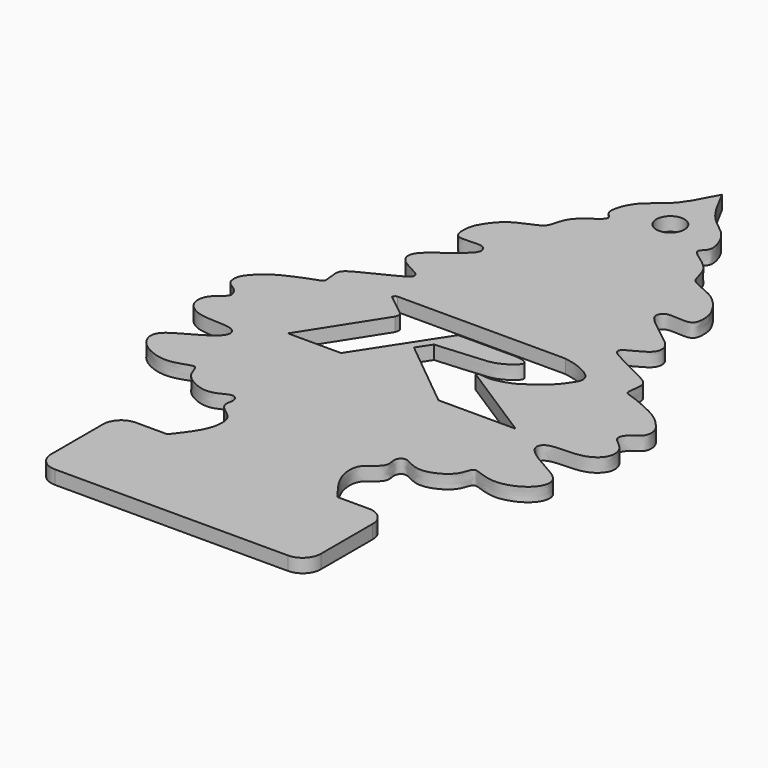
from build123d import *

# Parameters (mm, degrees)
F1_DEPTH = 1.5
F2_SCALE = 1.3
F3_R     = 2
F4_DEPTH = 1.9510001
F6_DEPTH = 1.9510001


with BuildPart() as f1:
    # F0 (on Top) → F1 (new body)
    with BuildSketch(Plane.XY):
        with BuildLine():
            add(Edge.make_bspline(
                [(0, 45.5050580204), (0.7142425006, 44.0796289631), (2.0052275605, 41.503182427), (4.6402957828, 40.0627711385), (5.6037892919, 37.881872721), (5.5936404093, 36.71879158), (4.5951142612, 36.0886818096), (5.7307746453, 35.1350282021), (7.5911196455, 33.9904323837), (7.9172796835, 31.956874219), (8.5000966539, 31.2184014739), (11.3278744693, 30.3686265303), (12.736597555, 28.288825875), (13.1976203441, 27.3015367821), (13.236407841, 25.3629188093), (11.9893823486, 25.1801074341), (10.1702717418, 25.4142346577), (9.6325200432, 24.9114817752), (9.3411107638, 23.815633911), (13.5445107824, 21.2479980884), (14.0578984345, 19.885141949), (13.5033493539, 18.6819406462), (11.256391137, 17.8464473714), (11.0596453486, 17.1644942773), (11.8532806973, 16.5272458042), (15.7702697907, 14.7387104677), (16.993123799, 13.8360161183), (16.3765127679, 11.7037521142), (17.2396567232, 11.5552601738), (20.9154165322, 10.0686967068), (22.0685994881, 8.8432253215), (22.9736430455, 7.8362683722), (22.872971038, 6.3369047051), (21.7752410777, 5.955259181), (21.0608443327, 4.9292935888), (21.3842409106, 4.2611562008), (22.7289993416, 3.4283114773), (23.0826036647, 1.5611581107), (21.169867279, -0.089980491), (17.9322466809, 0.2082480356), (16.7682485506, -0.3880878246), (16.7812400893, -1.5053684402), (18.7927580586, -2.8997949134), (21.7707730379, -4.2949909562), (21.9791753847, -5.825976716), (20.9956859936, -7.3809433562), (18.1472797938, -8.5284651703), (15.9880676557, -7.6619403601), (15.0984510718, -7.4237754422), (14.86397039, -8.9105983509), (13.61131565, -9.9786781625), (12.0481808403, -10.5419351232), (10.7877898676, -10.3432404822), (9.6865552289, -9.6448888438), (9.0833876361, -9.7773965213), (8.6932854825, -10.4179652528), (9.0948811543, -11.3824804306), (8.3451159992, -12.3162459962), (6.8505046064, -13.1388026508), (7.0160314268, -15.6343150866), (8.2868992841, -17.4980437436), (9.0174690224, -18.4363697121), (9.325123392, -18.8332814723)],
                knots=[0, 0, 0, 0, 0.0279521931, 0.0504676292, 0.0702027867, 0.0837937909, 0.0957563723, 0.1096935049, 0.1296167957, 0.1477088701, 0.1599882295, 0.1822493536, 0.202892027, 0.2171041564, 0.2338639434, 0.2474403639, 0.2652354948, 0.2756428502, 0.2873798646, 0.3160827043, 0.3314459546, 0.3456415412, 0.3657748055, 0.3749603713, 0.3873229653, 0.4150143501, 0.4309642169, 0.4483917829, 0.4590200093, 0.4852225219, 0.5030184532, 0.5178055706, 0.5325592061, 0.5463969433, 0.5603049518, 0.5706484206, 0.5868808774, 0.6036319509, 0.6232370386, 0.6470338888, 0.660842466, 0.6726278095, 0.6931855633, 0.7170425576, 0.731693738, 0.7488400623, 0.7715727487, 0.7915403768, 0.802120445, 0.816724409, 0.833775737, 0.8505570893, 0.8654572521, 0.8802060474, 0.8897605325, 0.9003067971, 0.9130561907, 0.9267541315, 0.9432455072, 0.9628994308, 0.9829943609, 1, 1, 1, 1], degree=3))
            add(Edge.make_bspline(
                [(0, 45.5050580204), (-0.7142425006, 44.0796289631), (-2.0052275605, 41.503182427), (-4.6402957828, 40.0627711385), (-5.6037892919, 37.881872721), (-5.5936404093, 36.71879158), (-4.5951142612, 36.0886818096), (-5.7307746453, 35.1350282021), (-7.5911196455, 33.9904323837), (-7.9172796835, 31.956874219), (-8.5000966539, 31.2184014739), (-11.3278744693, 30.3686265303), (-12.736597555, 28.288825875), (-13.1976203441, 27.3015367821), (-13.236407841, 25.3629188093), (-11.9893823486, 25.1801074341), (-10.1702717418, 25.4142346577), (-9.6325200432, 24.9114817752), (-9.3411107638, 23.815633911), (-13.5445107824, 21.2479980884), (-14.0578984345, 19.885141949), (-13.5033493539, 18.6819406462), (-11.256391137, 17.8464473714), (-11.0596453486, 17.1644942773), (-11.8532806973, 16.5272458042), (-15.7702697907, 14.7387104677), (-16.993123799, 13.8360161183), (-16.3765127679, 11.7037521142), (-17.2396567232, 11.5552601738), (-20.9154165322, 10.0686967068), (-22.0685994881, 8.8432253215), (-22.9736430455, 7.8362683722), (-22.872971038, 6.3369047051), (-21.7752410777, 5.955259181), (-21.0608443327, 4.9292935888), (-21.3842409106, 4.2611562008), (-22.7289993416, 3.4283114773), (-23.0826036647, 1.5611581107), (-21.169867279, -0.089980491), (-17.9322466809, 0.2082480356), (-16.7682485506, -0.3880878246), (-16.7812400893, -1.5053684402), (-18.7927580586, -2.8997949134), (-21.7707730379, -4.2949909562), (-21.9791753847, -5.825976716), (-20.9956859936, -7.3809433562), (-18.1472797938, -8.5284651703), (-15.9880676557, -7.6619403601), (-15.0984510718, -7.4237754422), (-14.86397039, -8.9105983509), (-13.61131565, -9.9786781625), (-12.0481808403, -10.5419351232), (-10.7877898676, -10.3432404822), (-9.6865552289, -9.6448888438), (-9.0833876361, -9.7773965213), (-8.6932854825, -10.4179652528), (-9.0948811543, -11.3824804306), (-8.3451159992, -12.3162459962), (-6.8505046064, -13.1388026508), (-7.0160314268, -15.6343150866), (-8.2868992841, -17.4980437436), (-9.0174690224, -18.4363697121), (-9.325123392, -18.8332814723)],
                knots=[0, 0, 0, 0, 0.0279521931, 0.0504676292, 0.0702027867, 0.0837937909, 0.0957563723, 0.1096935049, 0.1296167957, 0.1477088701, 0.1599882295, 0.1822493536, 0.202892027, 0.2171041564, 0.2338639434, 0.2474403639, 0.2652354948, 0.2756428502, 0.2873798646, 0.3160827043, 0.3314459546, 0.3456415412, 0.3657748055, 0.3749603713, 0.3873229653, 0.4150143501, 0.4309642169, 0.4483917829, 0.4590200093, 0.4852225219, 0.5030184532, 0.5178055706, 0.5325592061, 0.5463969433, 0.5603049518, 0.5706484206, 0.5868808774, 0.6036319509, 0.6232370386, 0.6470338888, 0.660842466, 0.6726278095, 0.6931855633, 0.7170425576, 0.731693738, 0.7488400623, 0.7715727487, 0.7915403768, 0.802120445, 0.816724409, 0.833775737, 0.8505570893, 0.8654572521, 0.8802060474, 0.8897605325, 0.9003067971, 0.9130561907, 0.9267541315, 0.9432455072, 0.9628994308, 0.9829943609, 1, 1, 1, 1], degree=3))
            Line((-9.325123392, -18.8332814723), (-12.7830247879, -18.8332814723))
            ThreePointArc((-12.7830247879, -18.8332814723), (-14.1972383503, -19.41906791), (-14.7830247879, -20.8332814723))
            Line((-14.7830247879, -20.8332814723), (-14.7830247879, -27.9278125167))
            ThreePointArc((-14.7830247879, -27.9278125167), (-14.1972383503, -29.3420260791), (-12.7830247879, -29.9278125167))
            Line((-12.7830247879, -29.9278125167), (0, -29.9278125167))
            Line((0, -29.9278125167), (12.7830247879, -29.9278125167))
            ThreePointArc((12.7830247879, -29.9278125167), (14.1972383503, -29.3420260791), (14.7830247879, -27.9278125167))
            Line((14.7830247879, -27.9278125167), (14.7830247879, -20.8332814723))
            ThreePointArc((14.7830247879, -20.8332814723), (14.1972383503, -19.41906791), (12.7830247879, -18.8332814723))
            Line((12.7830247879, -18.8332814723), (9.325123392, -18.8332814723))
        make_face()
    extrude(amount=F1_DEPTH)


with BuildPart() as f1_1:
    # F2: moved
    add(f1.part.scale(F2_SCALE))

    # F3 (on face) → F4 (cut, through all)
    with BuildSketch(Plane.XY.offset(1.95)):
        with Locations((0, 49.9733202159)):
            Circle(F3_R)
    extrude(amount=-F4_DEPTH, mode=Mode.SUBTRACT)

    # F5 (on face) → F6 (cut, through all)
    with BuildSketch(Plane.XY.offset(1.95)):
        with BuildLine():
            Line((11.0557144508, 17.4311883748), (-12.8567134961, 17.4311883748))
            add(Edge.make_bspline(
                [(-10.0516546518, 13.4874423966), (-9.9679213861, 13.6980227208), (-9.9230846178, 14.126854671), (-10.0986540021, 14.6288764381), (-13.3575138898, 16.9072087787), (-13.2748139445, 17.0669823523), (-13.1186931133, 17.4119357151), (-12.8567134961, 17.4311883748)],
                knots=[0, 0, 0, 0, 0.1680177569, 0.3371919829, 0.7626879676, 0.8389247343, 1, 1, 1, 1], degree=3))
            Line((-10.0516546518, 13.4874423966), (-16.8282315135, 2.8782116715))
            Line((-16.8282315135, 2.8782116715), (-9.2462422326, 2.8782116715))
            Line((-9.2462422326, 2.8782116715), (-1.7753443681, 14.3761737272))
            Line((-1.7753443681, 14.3761737272), (6.2432992272, 14.3728945404))
            add(Edge.make_bspline(
                [(-2.4496298283, 10.9551744536), (-1.8803284968, 11.0297335518), (-0.9410748476, 11.0095094173), (1.5232504357, 11.2643960003), (3.8187894731, 11.3784538291), (5.5126374306, 11.6151160422), (6.4317207729, 12.0381208735), (7.4068761466, 12.5583706563), (8.2315877134, 13.3989162837), (8.1939752343, 13.847429914), (7.7271387252, 14.1677011277), (7.0463823788, 14.3081639959), (6.5815449815, 14.3742458527), (6.2432992272, 14.3728945404)],
                knots=[0, 0, 0, 0, 0.104940708, 0.2368901618, 0.3684084821, 0.4774985702, 0.5613305035, 0.6519519919, 0.7414836949, 0.7919032856, 0.8525824301, 0.9224713966, 1, 1, 1, 1], degree=3))
            Line((-2.4496298283, 10.9551744536), (-3.7532614078, 8.9841093868))
            Line((-3.7532614078, 8.9841093868), (6.3222674653, 0.7574152551))
            Line((6.3222674653, 0.7574152551), (17.3204820603, 0.7574152551))
            Line((17.3204820603, 0.7574152551), (5.6617134251, 8.2216700539))
            add(Edge.make_bspline(
                [(11.0557144508, 17.4311883748), (11.6887603805, 17.3173178574), (13.0169166571, 17.078411323), (15.4371840204, 15.8835011232), (15.9426374665, 14.6092014422), (15.3285293602, 13.4886682777), (14.1856050737, 11.8731300206), (12.4186669442, 10.482444843), (10.5651863652, 9.1159994395), (8.9487736384, 8.636762116), (7.4701639349, 8.2588147388), (6.0044295579, 8.544889368), (5.7418100518, 8.4554616642), (5.6592990846, 8.342932345), (5.6617134251, 8.2216700539)],
                knots=[0, 0, 0, 0, 0.0996911495, 0.2125043055, 0.2875105061, 0.3627994298, 0.4607784359, 0.5668491012, 0.6724230978, 0.7621463785, 0.8502291159, 0.9331063697, 0.9661909729, 1, 1, 1, 1], degree=3))
        make_face()
    extrude(amount=-F6_DEPTH, mode=Mode.SUBTRACT)


solid = f1_1.part
